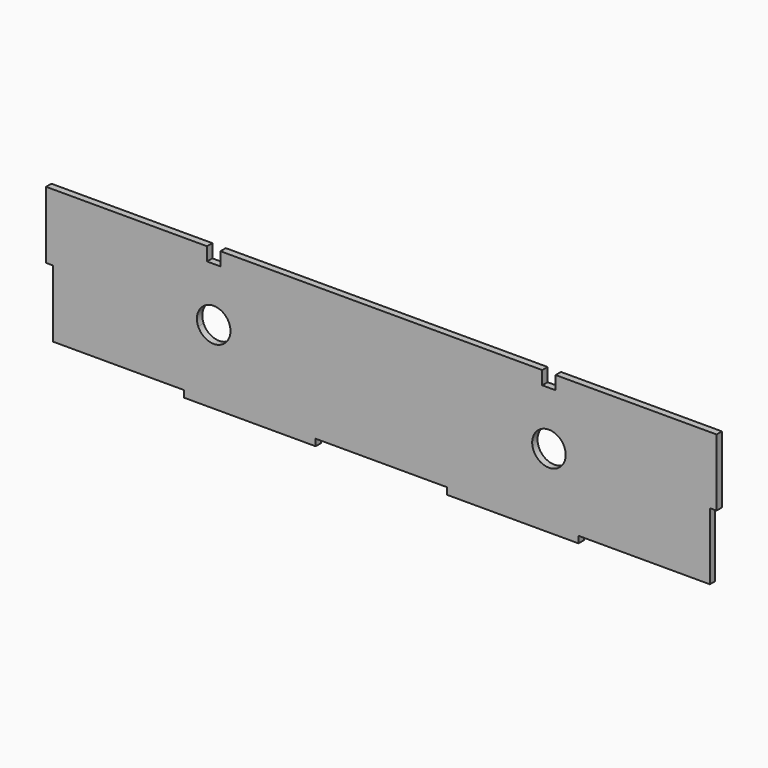
from build123d import *

# Parameters (mm, degrees)
F0_R     = 12.5
F0_W     = 98
F0_H     = 5
F0_W_2   = 5
F0_H_2   = 50
F0_H_3   = 100
F1_DEPTH = 5


with BuildPart() as f1:
    # F0 (on Front) → F1 (new body)
    with BuildSketch(Plane.XZ):
        Polygon((147, -50), (245, -50), (245, 0), (245, 50), (130, 50), (130, 40), (125, 40), (120, 40), (120, 50), (5, 50), (5, -50), (49, -50), align=None)
        with Locations((125, 0)):
            Circle(F0_R, mode=Mode.SUBTRACT)
        with Locations((98, -52.5)):
            Rectangle(F0_W, F0_H)
        with Locations((247.5, 25)):
            Rectangle(F0_W_2, F0_H_2)
        with Locations((2.5, 0)):
            Rectangle(F0_W_2, F0_H_3)
        with Locations((-2.5, 0)):
            Rectangle(F0_W_2, F0_H_3)
        with BuildLine():
            Line((-113.4615384615, -4.8076923077), (-5, -50))
            Line((-5, -50), (-5, 50))
            Line((-5, 50), (-113.4615384615, 4.8076923077))
            ThreePointArc((-113.4615384615, 4.8076923077), (-112.7427415539, 2.4514516892), (-112.5, 0))
            ThreePointArc((-112.5, 0), (-112.7427415539, -2.4514516892), (-113.4615384615, -4.8076923077))
        make_face()
        with BuildLine():
            Line((-49, -50), (-5, -50))
            Line((-5, -50), (-113.4615384615, -4.8076923077))
            ThreePointArc((-113.4615384615, -4.8076923077), (-125, -12.5), (-136.5384615385, -4.8076923077))
            Line((-136.5384615385, -4.8076923077), (-245, -50))
            Line((-245, -50), (-147, -50))
            Line((-147, -50), (-49, -50))
        make_face()
        with Locations((-98, -52.5)):
            Rectangle(F0_W, F0_H)
        with BuildLine():
            Line((-113.4615384615, 4.8076923077), (-5, 50))
            Line((-5, 50), (-120, 50))
            Line((-120, 50), (-120, 40))
            Line((-120, 40), (-125, 40))
            Line((-125, 40), (-125, 12.5))
            ThreePointArc((-125, 12.5), (-118.0662475472, 10.4006286792), (-113.4615384615, 4.8076923077))
        make_face()
        with BuildLine():
            Line((-245, -50), (-136.5384615385, -4.8076923077))
            ThreePointArc((-136.5384615385, -4.8076923077), (-137.5, 0), (-136.5384615385, 4.8076923077))
            Line((-136.5384615385, 4.8076923077), (-245, 50))
            Line((-245, 50), (-245, 0))
            Line((-245, 0), (-245, -50))
        make_face()
        with BuildLine():
            ThreePointArc((-136.5384615385, 4.8076923077), (-131.9337524528, 10.4006286792), (-125, 12.5))
            Line((-125, 12.5), (-125, 40))
            Line((-125, 40), (-130, 40))
            Line((-130, 40), (-130, 50))
            Line((-130, 50), (-245, 50))
            Line((-245, 50), (-136.5384615385, 4.8076923077))
        make_face()
        with Locations((-247.5, 25)):
            Rectangle(F0_W_2, F0_H_2)
    extrude(amount=F1_DEPTH)


solid = f1.part
